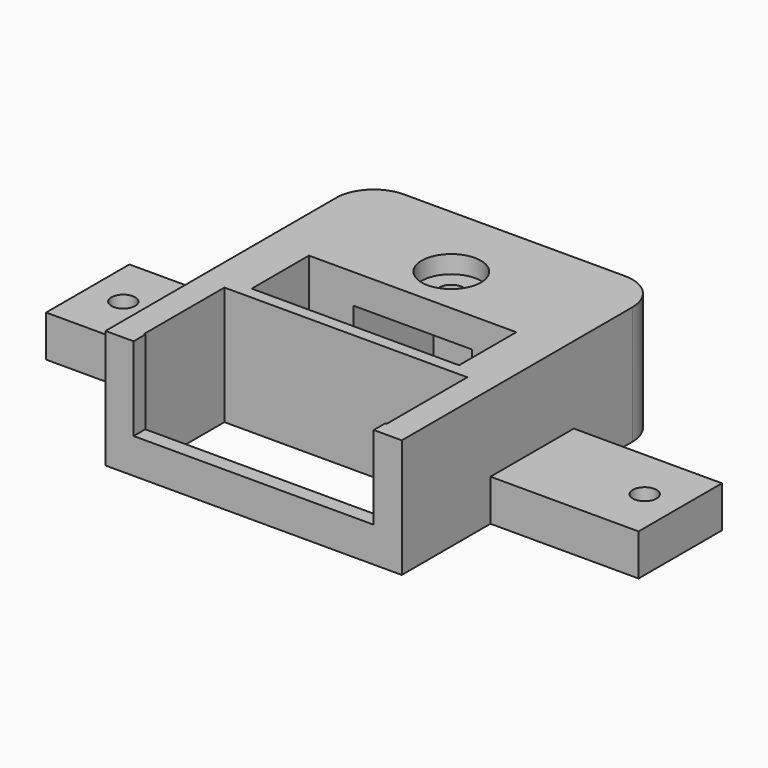
from build123d import *

# Parameters (mm, degrees)
F0_W      = 41
F0_H      = 17
F0_W_2    = 20
F0_H_2    = 20
F1_DEPTH  = 20
F2_W      = 40.5264794827
F2_H      = 14.0749709308
F3_DEPTH  = 5
F4_W      = 25
F4_H      = 17.5813399255
F5_DEPTH  = 7
F6_W      = 20
F6_H      = 20
F7_DEPTH  = 5
F8_R      = 2
F9_DEPTH  = 10
F10_R     = 5
F11_DEPTH = 3
F12_W     = 35
F12_H     = 12.0767594278
F13_DEPTH = 17
F14_R     = 2
F15_DEPTH = 10


with BuildPart() as f1:
    # F0 (on Top) → F1 (new body)
    with BuildSketch(Plane.XY):
        with BuildLine():
            Line((-25, 21.15), (-25, -27.5))
            Line((-25, -27.5), (25, -27.5))
            Line((25, -27.5), (25, 21.15))
            ThreePointArc((25, 21.15), (23.1401280605, 25.6401280605), (18.65, 27.5))
            Line((18.65, 27.5), (-18.65, 27.5))
            ThreePointArc((-18.65, 27.5), (-23.1401280605, 25.6401280605), (-25, 21.15))
        make_face()
        with Locations((0, -16.5383797139)):
            Rectangle(F0_W, F0_H, mode=Mode.SUBTRACT)
        with Locations((0, 12.9625145346)):
            Rectangle(F0_W_2, F0_H_2, mode=Mode.SUBTRACT)
    extrude(amount=F1_DEPTH)

    # F2 (on face) → F3 (cut)
    with BuildSketch(Plane.XZ.offset(27.5)):
        with Locations((0, 12.9625145346)):
            Rectangle(F2_W, F2_H)
    extrude(amount=-F3_DEPTH, mode=Mode.SUBTRACT)

    # F4 (on face) → F5 (join)
    with BuildSketch(Plane(origin=(0, 0, 0), x_dir=(1, 0, 0), z_dir=(0, 0, -1))):
        with Locations((-37.5, 0)):
            Rectangle(F4_W, F4_H)
        with Locations((37.5, 0)):
            Rectangle(F4_W, F4_H)
    extrude(amount=-F5_DEPTH)

    # F6 (on face) → F7 (join)
    with BuildSketch(Plane.XY.offset(20)):
        with Locations((0, 12.9625145346)):
            Rectangle(F6_W, F6_H)
    extrude(amount=-F7_DEPTH)

    # F8 (on face) → F9 (cut)
    with BuildSketch(Plane.XY.offset(20)):
        with Locations((0, 14.1955753788)):
            Circle(F8_R)
    extrude(amount=-F9_DEPTH, mode=Mode.SUBTRACT)

    # F10 (on face) → F11 (cut)
    with BuildSketch(Plane.XY.offset(20)):
        with Locations((0, 14.1955753788)):
            Circle(F10_R)
    extrude(amount=-F11_DEPTH, mode=Mode.SUBTRACT)

    # F12 (on face) → F13 (cut)
    with BuildSketch(Plane.XY.offset(20)):
        Rectangle(F12_W, F12_H)
    extrude(amount=-F13_DEPTH, mode=Mode.SUBTRACT)

    # F14 (on face) → F15 (cut)
    with BuildSketch(Plane.XY.offset(7)):
        with Locations((-44, 0)):
            Circle(F14_R)
        with Locations((44, 0)):
            Circle(F14_R)
    extrude(amount=-F15_DEPTH, mode=Mode.SUBTRACT)


solid = f1.part
